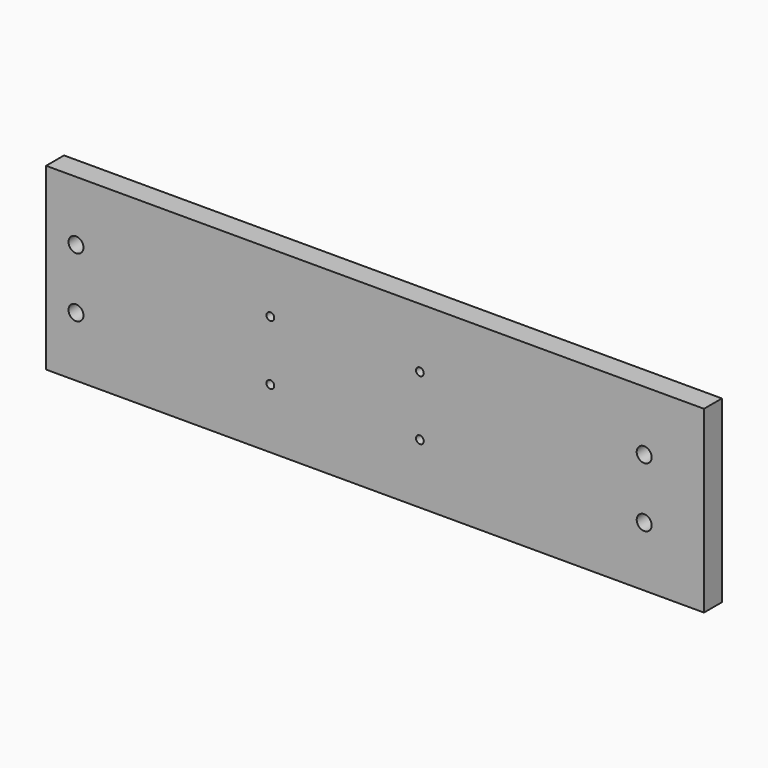
from build123d import *

# Parameters (mm, degrees)
F0_W     = 110
F0_H     = 15
F1_DEPTH = 3.75
F2_R     = 1.25
F2_R_2   = 0.65
F3_DEPTH = 25


with BuildPart() as f1:
    # F0 (on Front) → F1 (new body)
    with BuildSketch(Plane.XZ):
        with Locations((55, 7.5)):
            Rectangle(F0_W, F0_H)
        with Locations((55, -7.5)):
            Rectangle(F0_W, F0_H)
    extrude(amount=F1_DEPTH)

    # F2 (on face) → F3 (cut)
    with BuildSketch(Plane.XZ.offset(3.75)):
        with Locations((5, 5)):
            Circle(F2_R)
        with Locations((100, 5)):
            Circle(F2_R)
        with Locations((62.5, 5)):
            Circle(F2_R_2)
        with Locations((37.5, 5)):
            Circle(F2_R_2)
        with Locations((5, -5)):
            Circle(F2_R)
        with Locations((37.5, -5)):
            Circle(F2_R_2)
        with Locations((62.5, -5)):
            Circle(F2_R_2)
        with Locations((100, -5)):
            Circle(F2_R)
    extrude(amount=-F3_DEPTH, mode=Mode.SUBTRACT)


solid = f1.part
